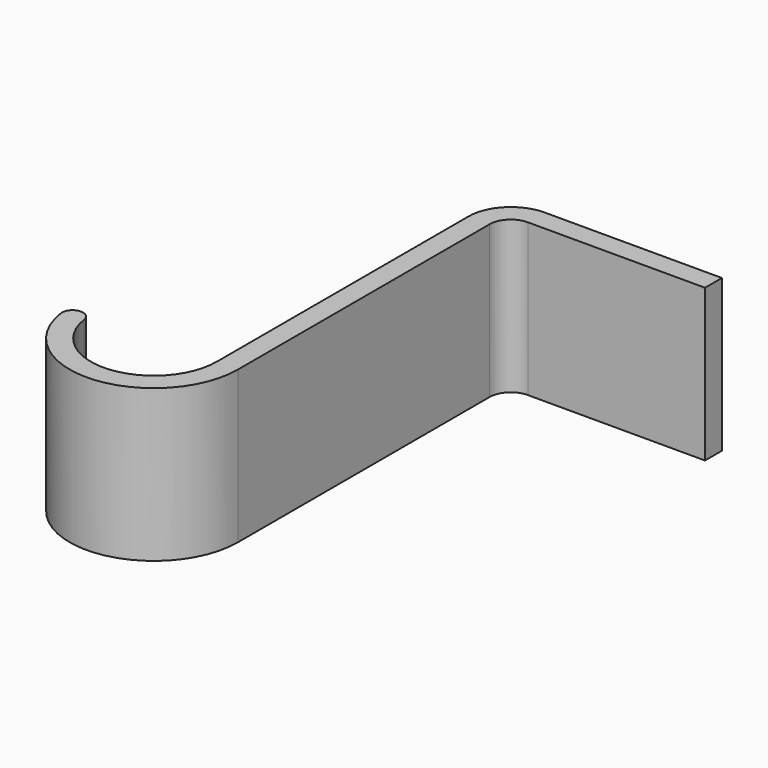
from build123d import *

# Parameters (mm, degrees)
F1_DEPTH = 23
F2_R     = 6.4008
F3_R     = 3.2004
F4_R     = 1.59766


with BuildPart() as f1:
    # F0 (on Top) → F1 (new body)
    with BuildSketch(Plane.XY):
        with BuildLine():
            Line((0, -50.775), (0, 0))
            Line((0, 0), (30, 0))
            Line((30, 0), (30, 3.2))
            Line((30, 3.2), (-3.2, 3.2))
            Line((-3.2, 3.2), (-3.2, -50.775))
            ThreePointArc((-3.2, -50.775), (-12.725, -60.3), (-22.25, -50.775))
            Line((-22.25, -50.775), (-25.45, -50.775))
            ThreePointArc((-25.45, -50.775), (-12.725, -63.5), (0, -50.775))
        make_face()
    extrude(amount=F1_DEPTH)

    # F2
    f2_edges = [f1.edges().sort_by_distance(p)[0] for p in [
        (-3.2, 3.2, 11.5),
    ]]
    fillet(f2_edges, radius=F2_R)

    # F3
    f3_edges = [f1.edges().sort_by_distance(p)[0] for p in [
        (0, 0, 11.5),
    ]]
    fillet(f3_edges, radius=F3_R)

    # F4
    f4_edges = [f1.edges().sort_by_distance(p)[0] for p in [
        (-25.45, -50.775, 11.5),
        (-22.25, -50.775, 11.5),
    ]]
    fillet(f4_edges, radius=F4_R)


solid = f1.part
